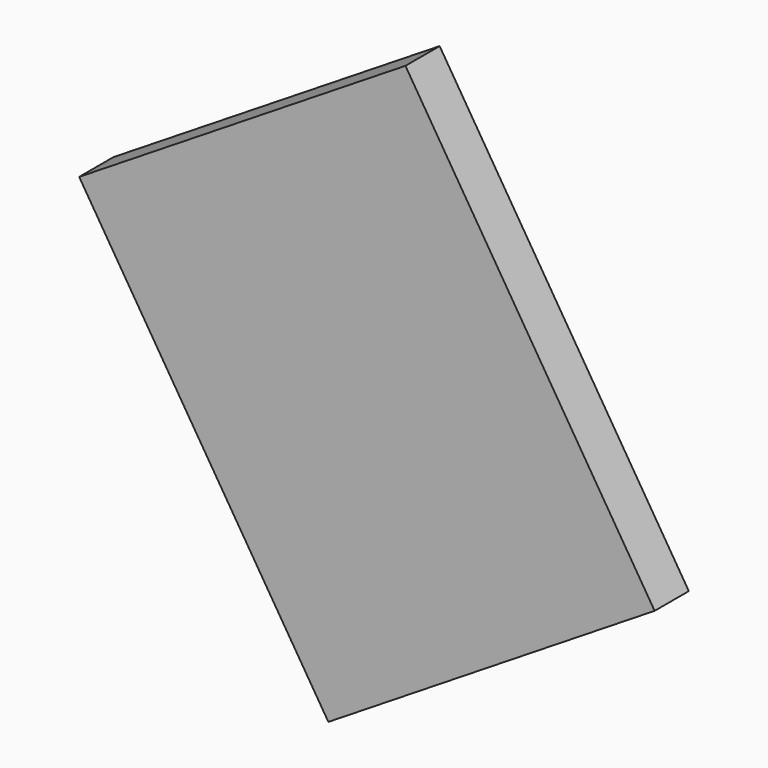
from build123d import *

# Parameters (mm, degrees)
CYLINDER074_R          = 0.5
CYLINDER074_DEPTH      = 0.01
BOX165_W               = 4.5
BOX165_H               = 5.5
BOX165_DEPTH           = 0.5
CUT081_ROLL_ANGLE      = 90
CUT081_PITCH_ANGLE     = 32
CUT081_PLACEMENT_ANGLE = -180


with BuildPart() as cylinder074:
    # Cylinder074 → Cylinder074 (new body)
    with BuildSketch(Plane(origin=(1, 4.5, 0.49), x_dir=(1, 0, 0), z_dir=(0, 0, 1))):
        Circle(CYLINDER074_R)
    extrude(amount=CYLINDER074_DEPTH)


with BuildPart() as obj1:
    # Box165 → Box165 (new body)
    with BuildSketch(Plane.XY):
        with Locations((2.25, 2.75)):
            Rectangle(BOX165_W, BOX165_H)
    extrude(amount=BOX165_DEPTH)

    # Cut081: cut Cylinder074
    add(cylinder074.part, mode=Mode.SUBTRACT)


with BuildPart() as obj1_1:
    # Cut081 roll: moved
    add(obj1.part.rotate(Axis((0, 0, 0), (1, 0, 0)), CUT081_ROLL_ANGLE))


with BuildPart() as obj1_2:
    # Cut081 pitch: moved
    add(obj1_1.part.rotate(Axis((0, 0, 0), (0, 1, 0)), CUT081_PITCH_ANGLE))


with BuildPart() as obj1_3:
    # Cut081 placement: moved
    add(obj1_2.part.moved(Location((12.75121, 3.34, 43.597519))).rotate(Axis((12.75121, 3.34, 43.597519), (0, 0, 1)), CUT081_PLACEMENT_ANGLE))


solid = obj1_3.part
